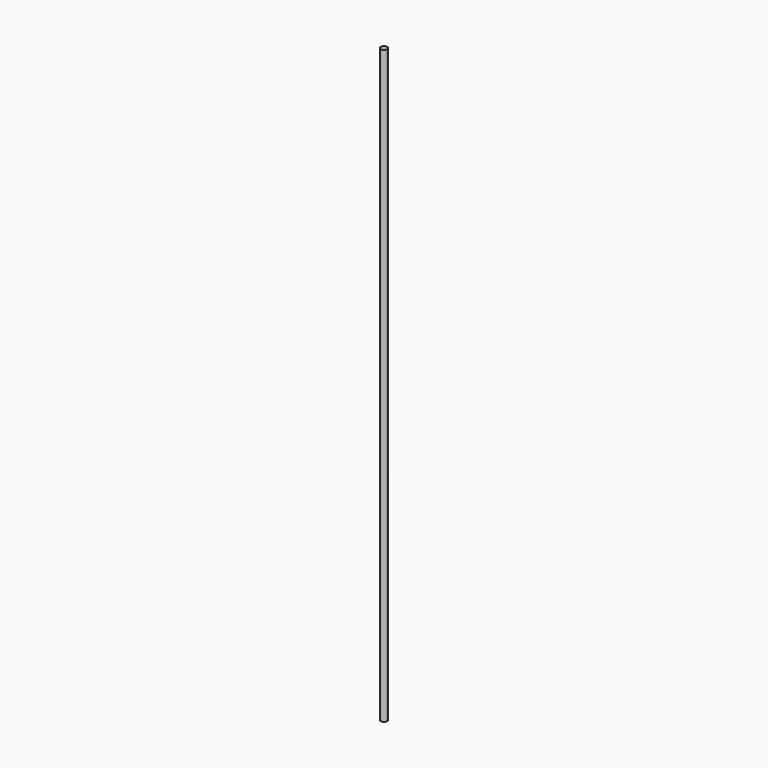
from build123d import *

# Parameters (mm, degrees)
F1_R     = 3.2
F2_DEPTH = 591


with BuildPart() as f2:
    # F1 (on offset) → F2 (new body)
    with BuildSketch(Plane.XY.offset(-1000)):
        Circle(F1_R)
    extrude(amount=F2_DEPTH)


solid = f2.part
